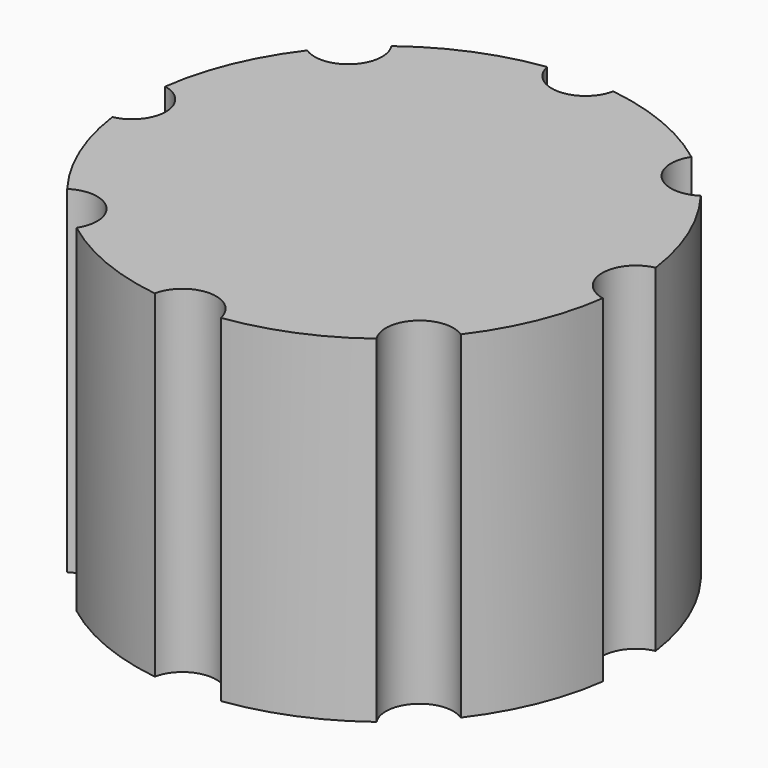
from build123d import *

# Parameters (mm, degrees)
CYLINDER001_R     = 1.5
CYLINDER001_DEPTH = 20
ARRAY_COUNT       = 8
CYLINDER_R        = 11
CYLINDER_DEPTH    = 15


with BuildPart() as array:
    # Cylinder001 → Cylinder001 (new body)
    with BuildSketch(Plane(origin=(11.2, 0, 0), x_dir=(1, 0, 0), z_dir=(0, 0, 1))):
        Circle(CYLINDER001_R)
    extrude(amount=CYLINDER001_DEPTH)

    # Array: Array ×8 about axis
    array_axis = Axis((0, 0, 0), (0, 0, 1))


with BuildPart() as array_1:
    add(array.part)
    for i in range(1, ARRAY_COUNT):
        add(array.part.rotate(array_axis, i * 360 / ARRAY_COUNT))


with BuildPart() as cut:
    # Cylinder → Cylinder (new body)
    with BuildSketch(Plane.XY):
        Circle(CYLINDER_R)
    extrude(amount=CYLINDER_DEPTH)

    # Cut: cut Array
    add(array_1.part, mode=Mode.SUBTRACT)


solid = cut.part
